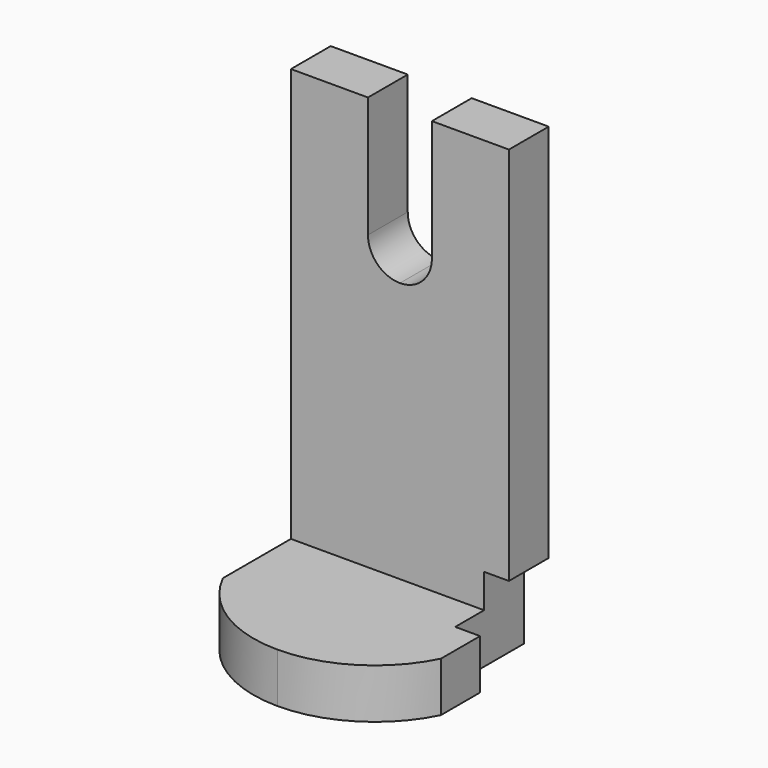
from build123d import *

# Parameters (mm, degrees)
F1_DEPTH      = 118.364
F2_W          = 68.2598565102
F2_H          = 105.664
F3_DEPTH      = 27.844343094
F3_DEPTH_BACK = 27.844343094
F4_W          = 9.2177082181
F4_H          = 8.6436167687
F5_DEPTH      = 6.35
F7_DEPTH      = 51.7396268929


with BuildPart() as f1:
    # F0 (on Top) → F1 (new body)
    with BuildSketch(Plane.XY):
        with BuildLine():
            Line((27.843343094, 0), (0, 0))
            Line((0, 0), (-27.843343094, 0))
            Line((-27.843343094, 0), (-27.843343094, -34.4115048647))
            ThreePointArc((-27.843343094, -34.4115048647), (-16.3972628236, -47.053149323), (0, -51.7386268929))
            ThreePointArc((0, -51.7386268929), (16.3972628236, -47.053149323), (27.843343094, -34.4115048647))
            Line((27.843343094, -34.4115048647), (27.843343094, 0))
        make_face()
    extrude(amount=F1_DEPTH)

    # F2 (on Right) → F3 (cut, two sides)
    with BuildSketch(Plane.YZ) as f3_sk:
        with Locations((-46.8299282551, 65.532)):
            Rectangle(F2_W, F2_H)
    extrude(amount=-F3_DEPTH, mode=Mode.SUBTRACT)
    extrude(f3_sk.sketch, amount=F3_DEPTH_BACK, mode=Mode.SUBTRACT)

    # F4 (on face) → F5 (cut)
    with BuildSketch(Plane.YZ.offset(27.843343094)):
        with Locations((-17.308854109, 17.0218083844)):
            Rectangle(F4_W, F4_H)
        Polygon((-21.9177082181, 0), (0, 0), (0, 21.3436167687), (-12.7, 21.3436167687), (-12.7, 12.7), (-21.9177082181, 12.7), align=None)
    extrude(amount=-F5_DEPTH, mode=Mode.SUBTRACT)

    # F6 (on face) → F7 (cut, through all)
    with BuildSketch(Plane(origin=(0, 0, 0), x_dir=(-1, 0, 0), z_dir=(0, 1, 0))):
        with BuildLine():
            Line((8.167100139, 118.364), (0, 118.364))
            Line((0, 118.364), (-8.167100139, 118.364))
            Line((-8.167100139, 118.364), (-8.167100139, 87.4478146434))
            ThreePointArc((-8.167100139, 87.4478146434), (-5.7750118909, 81.6728027525), (0, 79.2807145044))
            ThreePointArc((0, 79.2807145044), (5.7750118909, 81.6728027525), (8.167100139, 87.4478146434))
            Line((8.167100139, 87.4478146434), (8.167100139, 118.364))
        make_face()
    extrude(amount=-F7_DEPTH, mode=Mode.SUBTRACT)


solid = f1.part
